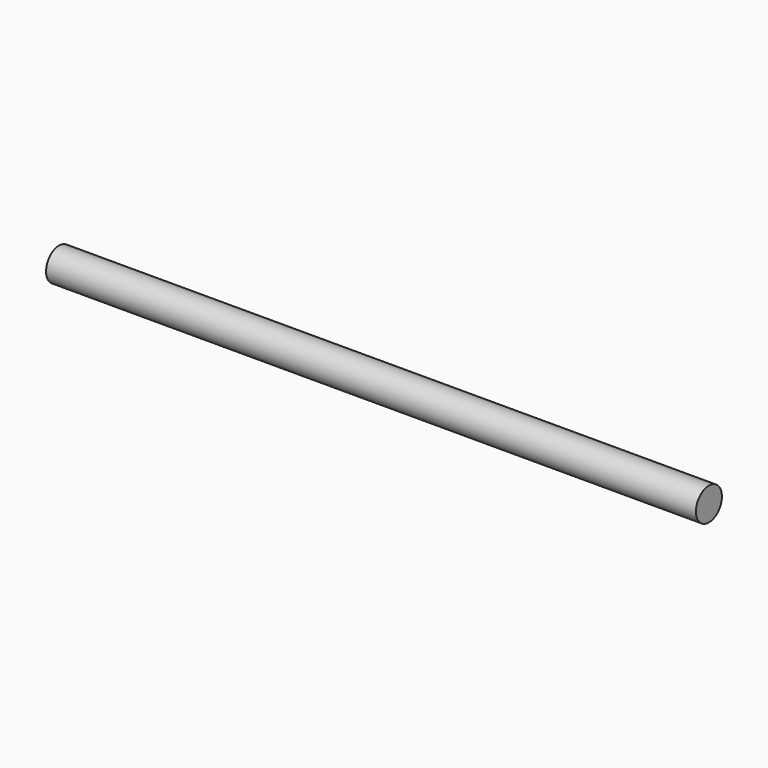
from build123d import *

# Parameters (mm, degrees)
F6_R     = 1.27
F7_DEPTH = 50.8


with BuildPart() as f7:
    # F6 (on line) → F7 (new body)
    with BuildSketch(Plane.YZ.offset(25.4)):
        with Locations((-139.7, 1.27)):
            Circle(F6_R)
    extrude(amount=-F7_DEPTH)


solid = f7.part
